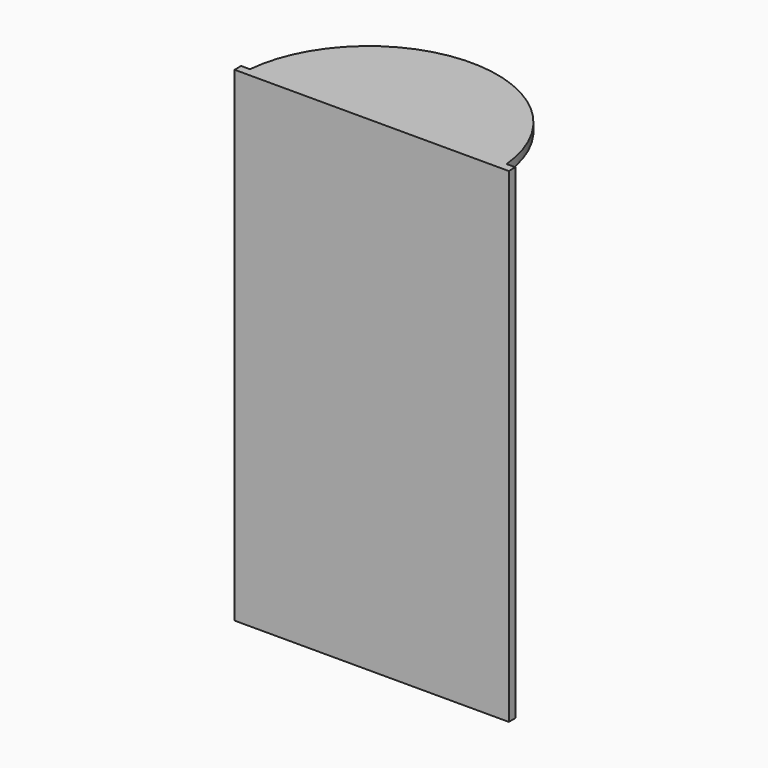
from build123d import *

# Parameters (mm, degrees)
F0_W     = 67
F0_H     = 118.5
F1_DEPTH = 2
F3_DEPTH = 2


with BuildPart() as f1:
    # F0 (on Front) → F1 (new body)
    with BuildSketch(Plane.XZ):
        with Locations((33.5, 59.25)):
            Rectangle(F0_W, F0_H)
    extrude(amount=F1_DEPTH)

    # F2 (on face) → F3 (join)
    with BuildSketch(Plane.XY.offset(118.5)):
        with BuildLine():
            Line((2.143183, 0), (64.856817, 0))
            ThreePointArc((64.856817, 0), (33.5, 28.5), (2.143183, 0))
        make_face()
        with BuildLine():
            Line((2.015877, -2), (64.984123, -2))
            ThreePointArc((64.984123, -2), (64.936379, -0.998987), (64.856817, 0))
            Line((64.856817, 0), (2.143183, 0))
            ThreePointArc((2.143183, 0), (2.063621, -0.998987), (2.015877, -2))
        make_face()
    extrude(amount=-F3_DEPTH)


solid = f1.part
